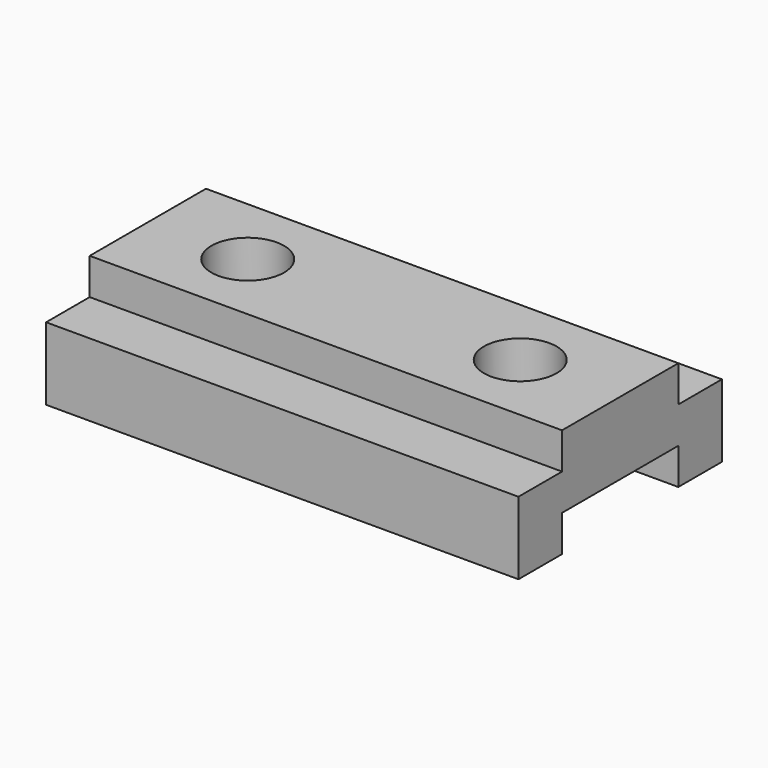
from build123d import *

# Parameters (mm, degrees)
F0_W     = 165.1
F0_H     = 38.1
F1_DEPTH = 88.9
F2_W     = 50.8
F2_H     = 12.7
F3_DEPTH = 165.1
F4_W     = 165.1
F4_H     = 19.05
F5_DEPTH = 12.7
F6_DEPTH = 12.7
F7_R     = 12.7
F8_DEPTH = 25.4
F9_DEPTH = 25.4


with BuildPart() as f1:
    # F0 (on Front) → F1 (new body)
    with BuildSketch(Plane.XZ):
        with Locations((82.55, 19.05)):
            Rectangle(F0_W, F0_H)
    extrude(amount=F1_DEPTH)

    # F2 (on face) → F3 (cut)
    with BuildSketch(Plane.YZ.offset(165.1)):
        with Locations((-44.45, 6.35)):
            Rectangle(F2_W, F2_H)
    extrude(amount=-F3_DEPTH, mode=Mode.SUBTRACT)

    # F4 (on face) → F5 (cut)
    with BuildSketch(Plane.XY.offset(38.1)):
        with Locations((82.55, -79.375)):
            Rectangle(F4_W, F4_H)
    extrude(amount=-F5_DEPTH, mode=Mode.SUBTRACT)

    # F4 (on face) → F6 (cut)
    with BuildSketch(Plane.XY.offset(38.1)):
        with Locations((82.55, -9.525)):
            Rectangle(F4_W, F4_H)
    extrude(amount=-F6_DEPTH, mode=Mode.SUBTRACT)

    # F7 (on face) → F8 (cut, through all)
    with BuildSketch(Plane.XY.offset(38.1)):
        with Locations((130.175, -44.45)):
            Circle(F7_R)
    extrude(amount=-F8_DEPTH, mode=Mode.SUBTRACT)

    # F7 (on face) → F9 (cut, through all)
    with BuildSketch(Plane.XY.offset(38.1)):
        with Locations((34.925, -44.45)):
            Circle(F7_R)
    extrude(amount=-F9_DEPTH, mode=Mode.SUBTRACT)


solid = f1.part
